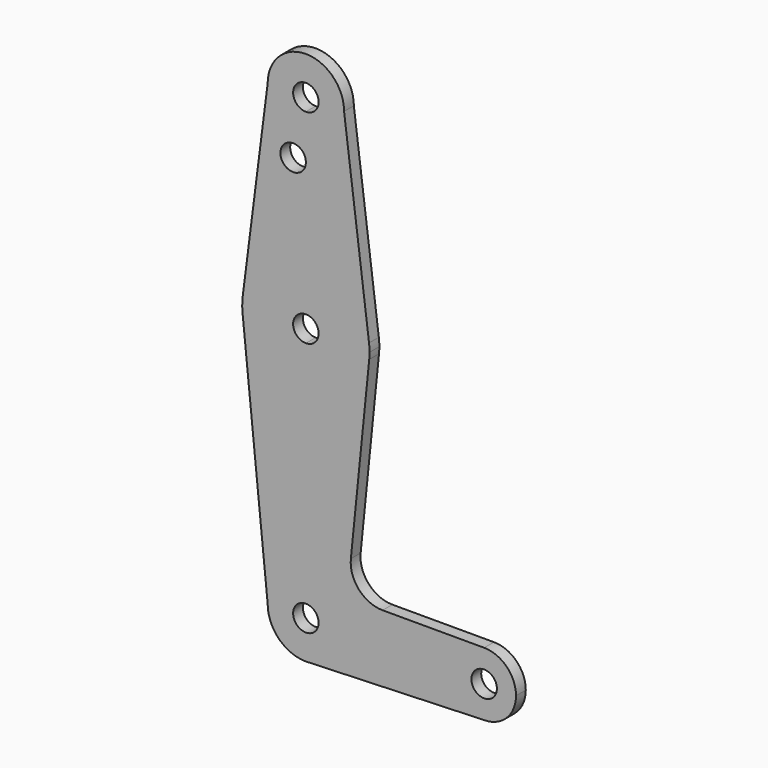
from build123d import *

# Parameters (mm, degrees)
F0_R     = 3.175
F1_DEPTH = 3.048


with BuildPart() as f1:
    # F0 (on Front) → F1 (new body)
    with BuildSketch(Plane.XZ):
        with BuildLine():
            ThreePointArc((0, 9.525), (-6.7351920908, 6.7351920908), (-9.525, 0))
            ThreePointArc((-9.525, 0), (-6.7351920908, -6.7351920908), (0, -9.525))
            Line((0, -9.525), (0.6794904459, -9.5007324841))
            ThreePointArc((0.6794904459, -9.5007324841), (6.9712901065, -6.4905114784), (9.525, 0))
            Line((9.525, 0), (3.175, 0))
            ThreePointArc((3.175, 0), (-2.2450640303, -2.2450640303), (0, 3.175))
            Line((0, 3.175), (0, 9.525))
        make_face()
        with BuildLine():
            Line((-15.7942028036, 61.9003804205), (-9.525, 0))
            ThreePointArc((-9.525, 0), (-6.7351920908, 6.7351920908), (0, 9.525))
            Line((0, 9.525), (0, 47.625))
            ThreePointArc((0, 47.625), (-10.644756084, 51.722700101), (-15.7942028036, 61.9003804205))
        make_face()
        with BuildLine():
            Line((0.6794904459, -9.5007324841), (0, -9.525))
            ThreePointArc((0, -9.525), (0.3399618281, -9.5189311877), (0.6794904459, -9.5007324841))
        make_face()
        with BuildLine():
            Line((0, 47.625), (0, 9.525))
            ThreePointArc((0, 9.525), (6.7351920908, 6.7351920908), (9.525, 0))
            Line((9.525, 0), (36.5125, 0))
            ThreePointArc((36.5125, 0), (38.8373399243, 5.6126600757), (44.45, 7.9375))
            Line((44.45, 7.9375), (19.1249591039, 7.9375))
            ThreePointArc((19.1249591039, 7.9375), (13.2268873144, 10.5568061531), (11.2152223398, 16.6887894854))
            Line((11.2152223398, 16.6887894854), (15.7942028036, 61.9003804205))
            ThreePointArc((15.7942028036, 61.9003804205), (10.644756084, 51.722700101), (0, 47.625))
        make_face()
        with BuildLine():
            ThreePointArc((-15.7474569047, 65.5082893304), (-15.873667691, 63.7056672947), (-15.7942028036, 61.9003804205))
            ThreePointArc((-15.7942028036, 61.9003804205), (-10.644756084, 51.722700101), (0, 47.625))
            Line((0, 47.625), (0, 60.325))
            ThreePointArc((0, 60.325), (-3.175, 63.5), (0, 66.675))
            Line((0, 66.675), (0, 79.375))
            ThreePointArc((0, 79.375), (-10.4912828548, 75.4142187767), (-15.7474569047, 65.5082893304))
        make_face()
        with BuildLine():
            ThreePointArc((9.525, 0), (6.9712901065, -6.4905114784), (0.6794904459, -9.5007324841))
            Line((0.6794904459, -9.5007324841), (44.45, -7.9375))
            ThreePointArc((44.45, -7.9375), (38.8373399243, -5.6126600757), (36.5125, 0))
            Line((36.5125, 0), (9.525, 0))
        make_face()
        with BuildLine():
            Line((0, 60.325), (0, 47.625))
            ThreePointArc((0, 47.625), (10.644756084, 51.722700101), (15.7942028036, 61.9003804205))
            ThreePointArc((15.7942028036, 61.9003804205), (15.8547878338, 62.6991705884), (15.875, 63.5))
            ThreePointArc((15.875, 63.5), (15.8430821396, 64.5061676396), (15.7474569047, 65.5082893304))
            ThreePointArc((15.7474569047, 65.5082893304), (10.4912828548, 75.4142187767), (0, 79.375))
            Line((0, 79.375), (0, 66.675))
            ThreePointArc((0, 66.675), (2.2450640303, 65.7450640303), (3.175, 63.5))
            ThreePointArc((3.175, 63.5), (2.2450640303, 61.2549359697), (0, 60.325))
        make_face()
        with BuildLine():
            Line((-9.525, 114.3), (-15.7474569047, 65.5082893304))
            ThreePointArc((-15.7474569047, 65.5082893304), (-10.4912828548, 75.4142187767), (0, 79.375))
            Line((0, 79.375), (0, 100.0252))
            Line((0, 100.0252), (0, 104.775))
            ThreePointArc((0, 104.775), (-6.7351920908, 107.5648079092), (-9.525, 114.3))
        make_face()
        with Locations((-3.175, 100.0252)):
            Circle(F0_R, mode=Mode.SUBTRACT)
        with BuildLine():
            ThreePointArc((36.5125, 0), (38.8373399243, -5.6126600757), (44.45, -7.9375))
            ThreePointArc((44.45, -7.9375), (50.0626600757, -5.6126600757), (52.3875, 0))
            ThreePointArc((52.3875, 0), (50.0626600757, 5.6126600757), (44.45, 7.9375))
            ThreePointArc((44.45, 7.9375), (38.8373399243, 5.6126600757), (36.5125, 0))
        make_face()
        with BuildLine():
            ThreePointArc((47.625, 0), (44.45, -3.175), (41.275, 0))
            ThreePointArc((41.275, 0), (44.45, 3.175), (47.625, 0))
        make_face(mode=Mode.SUBTRACT)
        with BuildLine():
            Line((0, 100.0252), (0, 79.375))
            ThreePointArc((0, 79.375), (10.4912828548, 75.4142187767), (15.7474569047, 65.5082893304))
            Line((15.7474569047, 65.5082893304), (9.525, 114.3))
            ThreePointArc((9.525, 114.3), (6.7351920908, 107.5648079092), (0, 104.775))
            Line((0, 104.775), (0, 100.0252))
        make_face()
        with BuildLine():
            ThreePointArc((9.525, 114.3), (0, 123.825), (-9.525, 114.3))
            ThreePointArc((-9.525, 114.3), (-6.7351920908, 107.5648079092), (0, 104.775))
            ThreePointArc((0, 104.775), (6.7351920908, 107.5648079092), (9.525, 114.3))
        make_face()
        with BuildLine():
            ThreePointArc((3.175, 114.3), (2.2450640303, 112.0549359697), (0, 111.125))
            ThreePointArc((0, 111.125), (-2.2450640303, 116.5450640303), (3.175, 114.3))
        make_face(mode=Mode.SUBTRACT)
        with BuildLine():
            ThreePointArc((9.525, 0), (6.7351920908, 6.7351920908), (0, 9.525))
            Line((0, 9.525), (0, 3.175))
            ThreePointArc((0, 3.175), (2.2450640303, 2.2450640303), (3.175, 0))
            Line((3.175, 0), (9.525, 0))
        make_face()
    extrude(amount=F1_DEPTH)


solid = f1.part
